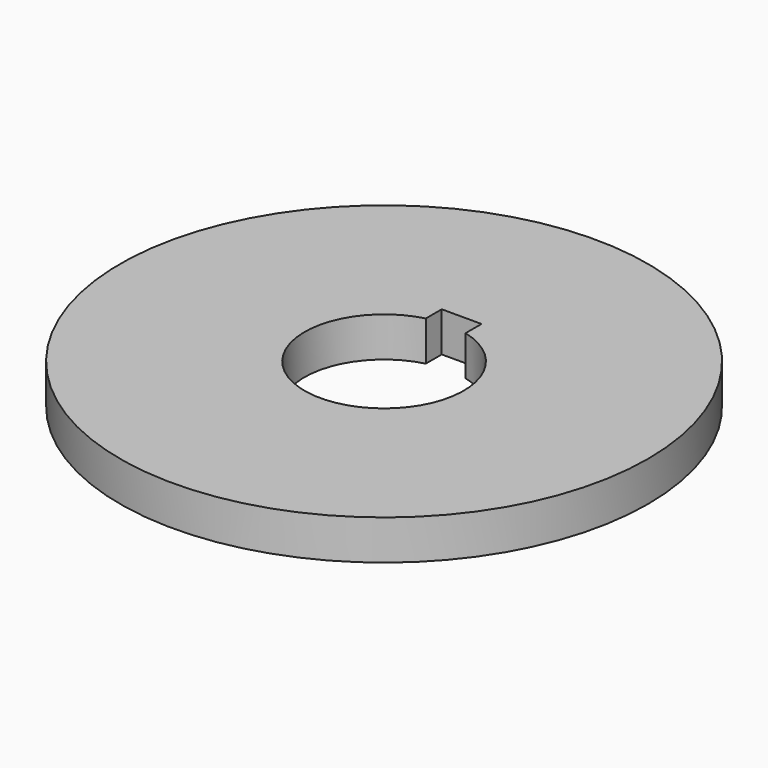
from build123d import *

# Parameters (mm, degrees)
SKETCH_R     = 66.350029
PAD_DEPTH    = 10
POCKET_DEPTH = 10.001


with BuildPart() as part:
    # Sketch → Pad (new body)
    with BuildSketch(Plane.XY):
        Circle(SKETCH_R)
    extrude(amount=PAD_DEPTH)

    # Sketch001 (on Face3 of Pad) → Pocket (cut, through all)
    with BuildSketch(Plane.XY.offset(10)):
        with BuildLine():
            ThreePointArc((-5, 19.364917), (0, -20), (5, 19.364917))
            Line((5, 19.364917), (5, 24.364917))
            Line((5, 24.364917), (-5, 24.364917))
            Line((-5, 24.364917), (-5, 19.364917))
        make_face()
    extrude(amount=-POCKET_DEPTH, mode=Mode.SUBTRACT)


solid = part.part
